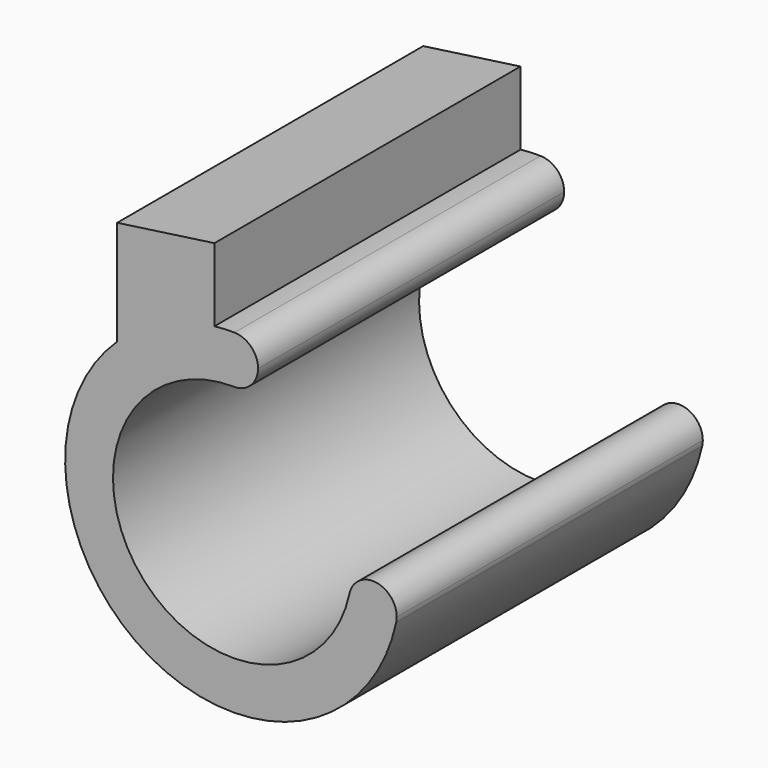
from build123d import *

# Parameters (mm, degrees)
F1_DEPTH      = 8
F1_DEPTH_BACK = 8


with BuildPart() as f1:
    # F0 (on Front) → F1 (new body, two sides)
    with BuildSketch(Plane.XZ) as f1_sk:
        with BuildLine():
            ThreePointArc((56.19859, 38.813233), (58.076932, 40.091577), (60.265757, 40.700987))
            Line((60.265757, 40.700987), (60.265757, 43.761281))
            Line((60.265757, 43.761281), (56.19859, 43.189678))
            Line((56.19859, 43.189678), (56.19859, 38.813233))
        make_face()
        with BuildLine():
            ThreePointArc((67.889509, 32.479032), (66.995365, 33.473414), (65.91192, 32.689556))
            ThreePointArc((65.91192, 32.689556), (66.678985, 31.501443), (67.867097, 32.268509))
            ThreePointArc((67.867097, 32.268509), (67.88389, 32.373176), (67.889509, 32.479032))
        make_face()
        with BuildLine():
            ThreePointArc((65.91192, 32.689556), (57.116487, 30.622632), (61.08007, 38.741858))
            ThreePointArc((61.08007, 38.741858), (60.091351, 39.753014), (61.102507, 40.741732))
            ThreePointArc((61.102507, 40.741732), (60.683522, 40.733888), (60.265757, 40.700987))
            ThreePointArc((60.265757, 40.700987), (58.076932, 40.091577), (56.19859, 38.813233))
            ThreePointArc((56.19859, 38.813233), (57.599627, 27.636942), (67.867097, 32.268509))
            ThreePointArc((67.867097, 32.268509), (66.678985, 31.501443), (65.91192, 32.689556))
        make_face()
        with BuildLine():
            ThreePointArc((61.102507, 40.741732), (60.091351, 39.753014), (61.08007, 38.741858))
            ThreePointArc((61.08007, 38.741858), (61.794417, 39.030733), (62.091288, 39.741795))
            ThreePointArc((62.091288, 39.741795), (61.80235, 40.444924), (61.102507, 40.741732))
        make_face()
    extrude(amount=F1_DEPTH)
    extrude(f1_sk.sketch, amount=-F1_DEPTH_BACK)


solid = f1.part
